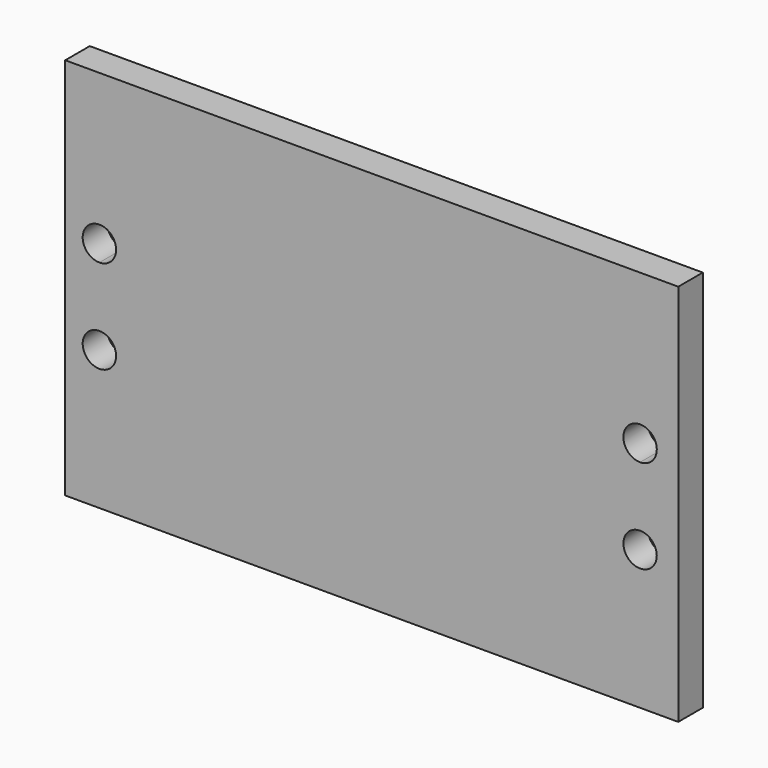
from build123d import *

# Parameters (mm, degrees)
F0_W     = 101.6
F0_H     = 63.5
F1_DEPTH = 5.08


with BuildPart() as f1:
    # F0 (on Front) → F1 (new body)
    with BuildSketch(Plane.XZ):
        with Locations((0.28524, 1.616135)):
            Rectangle(F0_W, F0_H)
        with BuildLine():
            ThreePointArc((-44.851955, -4.279891), (-42.894259, -5.090796), (-42.083355, -7.048491))
            ThreePointArc((-42.083355, -7.048491), (-46.809651, -9.006187), (-44.851955, -4.279891))
        make_face(mode=Mode.SUBTRACT)
        with BuildLine():
            ThreePointArc((44.758935, -4.285452), (46.712698, -5.094728), (47.521974, -7.048491))
            ThreePointArc((47.521974, -7.048491), (42.805171, -9.002255), (44.758935, -4.285452))
        make_face(mode=Mode.SUBTRACT)
        with BuildLine():
            ThreePointArc((-42.083355, 8.460924), (-42.894259, 6.503228), (-44.851955, 5.692324))
            ThreePointArc((-44.851955, 5.692324), (-46.809651, 10.41862), (-42.083355, 8.460924))
        make_face(mode=Mode.SUBTRACT)
        with BuildLine():
            ThreePointArc((47.527535, 8.460924), (46.71663, 6.503228), (44.758935, 5.692324))
            ThreePointArc((44.758935, 5.692324), (42.801239, 10.41862), (47.527535, 8.460924))
        make_face(mode=Mode.SUBTRACT)
    extrude(amount=F1_DEPTH)


solid = f1.part
